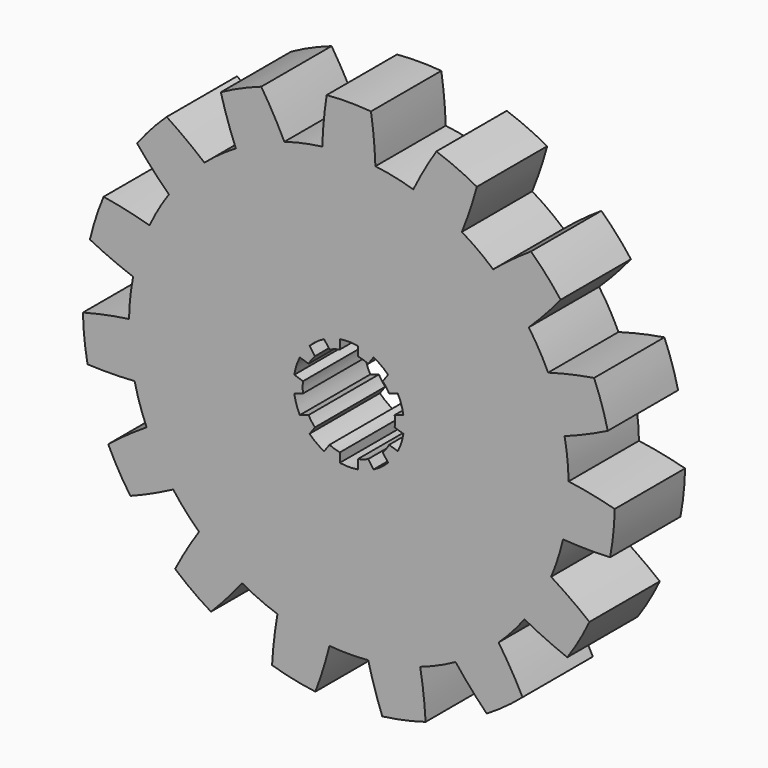
from build123d import *

# Parameters (mm, degrees)
F1_DEPTH = 20
F3_DEPTH = 20


with BuildPart() as f1:
    # F0 (on Front) → F1 (new body)
    with BuildSketch(Plane.XZ):
        with BuildLine():
            ThreePointArc((48.729363, -11.200408), (49.681325, -5.636126), (50, 0))
            ThreePointArc((50, 0), (49.998301, 0.412138), (49.993206, 0.824248))
            ThreePointArc((49.993206, 0.824248), (49.726095, 5.226423), (49.072105, 9.587936))
            ThreePointArc((49.072105, 9.587936), (47.552826, 15.45085), (45.335814, 21.087057))
            ThreePointArc((45.335814, 21.087057), (43.30127, 25), (40.929834, 28.718438))
            ThreePointArc((40.929834, 28.718438), (37.157241, 33.45653), (32.839448, 37.703722))
            ThreePointArc((32.839448, 37.703722), (29.389263, 40.45085), (25.710422, 42.883262))
            ThreePointArc((25.710422, 42.883262), (20.336832, 45.677273), (14.664844, 47.801071))
            ThreePointArc((14.664844, 47.801071), (10.395585, 48.90738), (6.045446, 49.63318))
            ThreePointArc((6.045446, 49.63318), (0, 50), (-6.045446, 49.63318))
            ThreePointArc((-6.045446, 49.63318), (-10.395585, 48.90738), (-14.664844, 47.801071))
            ThreePointArc((-14.664844, 47.801071), (-20.336832, 45.677273), (-25.710422, 42.883262))
            ThreePointArc((-25.710422, 42.883262), (-29.389263, 40.45085), (-32.839448, 37.703722))
            ThreePointArc((-32.839448, 37.703722), (-37.157241, 33.45653), (-40.929834, 28.718438))
            ThreePointArc((-40.929834, 28.718438), (-43.30127, 25), (-45.335814, 21.087057))
            ThreePointArc((-45.335814, 21.087057), (-47.552826, 15.45085), (-49.072105, 9.587936))
            ThreePointArc((-49.072105, 9.587936), (-49.726095, 5.226423), (-49.993206, 0.824248))
            ThreePointArc((-49.993206, 0.824248), (-49.726095, -5.226423), (-48.729363, -11.200408))
            ThreePointArc((-48.729363, -11.200408), (-47.552826, -15.45085), (-46.006318, -19.581081))
            ThreePointArc((-46.006318, -19.581081), (-43.30127, -25), (-39.960872, -30.0521))
            ThreePointArc((-39.960872, -30.0521), (-37.157241, -33.45653), (-34.06452, -36.600663))
            ThreePointArc((-34.06452, -36.600663), (-29.389263, -40.45085), (-24.282783, -43.70751))
            ThreePointArc((-24.282783, -43.70751), (-20.336832, -45.677273), (-16.232657, -47.291657))
            ThreePointArc((-16.232657, -47.291657), (-10.395585, -48.90738), (-4.40598, -49.805495))
            ThreePointArc((-4.40598, -49.805495), (0, -50), (4.40598, -49.805495))
            ThreePointArc((4.40598, -49.805495), (10.395585, -48.90738), (16.232657, -47.291657))
            ThreePointArc((16.232657, -47.291657), (20.336832, -45.677273), (24.282783, -43.70751))
            ThreePointArc((24.282783, -43.70751), (29.389263, -40.45085), (34.06452, -36.600663))
            ThreePointArc((34.06452, -36.600663), (37.157241, -33.45653), (39.960872, -30.0521))
            ThreePointArc((39.960872, -30.0521), (43.30127, -25), (46.006318, -19.581081))
            ThreePointArc((46.006318, -19.581081), (47.552826, -15.45085), (48.729363, -11.200408))
        make_face()
        with BuildLine():
            ThreePointArc((-25.710422, 42.883262), (-20.336832, 45.677273), (-14.664844, 47.801071))
            ThreePointArc((-14.664844, 47.801071), (-17.153833, 52.541957), (-19.920351, 57.126435))
            ThreePointArc((-19.920351, 57.126435), (-24.607567, 55.2695), (-29.123899, 53.028752))
            ThreePointArc((-29.123899, 53.028752), (-27.568128, 47.905214), (-25.710422, 42.883262))
        make_face()
        with BuildLine():
            ThreePointArc((-6.045446, 49.63318), (0, 50), (6.045446, 49.63318))
            ThreePointArc((6.045446, 49.63318), (5.699933, 54.976558), (5.037269, 60.289932))
            ThreePointArc((5.037269, 60.289932), (0, 60.5), (-5.037269, 60.289932))
            ThreePointArc((-5.037269, 60.289932), (-5.699933, 54.976558), (-6.045446, 49.63318))
        make_face()
        with BuildLine():
            ThreePointArc((14.664844, 47.801071), (20.336832, 45.677273), (25.710422, 42.883262))
            ThreePointArc((25.710422, 42.883262), (27.568128, 47.905214), (29.123899, 53.028752))
            ThreePointArc((29.123899, 53.028752), (24.607567, 55.2695), (19.920351, 57.126435))
            ThreePointArc((19.920351, 57.126435), (17.153833, 52.541957), (14.664844, 47.801071))
        make_face()
        with BuildLine():
            ThreePointArc((32.839448, 37.703722), (37.157241, 33.45653), (40.929834, 28.718438))
            ThreePointArc((40.929834, 28.718438), (44.669544, 32.550622), (48.174742, 36.598419))
            ThreePointArc((48.174742, 36.598419), (44.960262, 40.482402), (41.43356, 44.085259))
            ThreePointArc((41.43356, 44.085259), (37.041545, 41.022373), (32.839448, 37.703722))
        make_face()
        with BuildLine():
            ThreePointArc((45.335814, 21.087057), (47.552826, 15.45085), (49.072105, 9.587936))
            ThreePointArc((49.072105, 9.587936), (54.04719, 11.567733), (58.895735, 13.839886))
            ThreePointArc((58.895735, 13.839886), (57.538919, 18.695528), (55.782531, 23.421341))
            ThreePointArc((55.782531, 23.421341), (50.524438, 22.409649), (45.335814, 21.087057))
        make_face()
        with BuildLine():
            ThreePointArc((49.993206, 0.824248), (49.998301, 0.412138), (50, 0))
            ThreePointArc((50, 0), (49.681325, -5.636126), (48.729363, -11.200408))
            ThreePointArc((48.729363, -11.200408), (54.079586, -11.415323), (59.43312, -11.311688))
            ThreePointArc((59.43312, -11.311688), (60.168575, -6.323972), (60.486196, -1.29234))
            ThreePointArc((60.486196, -1.29234), (55.271196, -0.077907), (49.993206, 0.824248))
        make_face()
        with BuildLine():
            ThreePointArc((54.731247, -25.782563), (50.461062, -22.551992), (46.006318, -19.581081))
            ThreePointArc((46.006318, -19.581081), (43.30127, -25), (39.960872, -30.0521))
            ThreePointArc((39.960872, -30.0521), (44.76113, -32.424566), (49.693979, -34.507369))
            ThreePointArc((49.693979, -34.507369), (52.394537, -30.25), (54.731247, -25.782563))
        make_face()
        with BuildLine():
            ThreePointArc((39.512769, -45.814747), (36.925753, -41.126633), (34.06452, -36.600663))
            ThreePointArc((34.06452, -36.600663), (29.389263, -40.45085), (24.282783, -43.70751))
            ThreePointArc((24.282783, -43.70751), (27.703068, -47.827306), (31.362297, -51.736412))
            ThreePointArc((31.362297, -51.736412), (35.561008, -48.945528), (39.512769, -45.814747))
        make_face()
        with BuildLine():
            ThreePointArc((17.462174, -57.925145), (17.005645, -52.590106), (16.232657, -47.291657))
            ThreePointArc((16.232657, -47.291657), (10.395585, -48.90738), (4.40598, -49.805495))
            ThreePointArc((4.40598, -49.805495), (5.854894, -54.960271), (7.607789, -60.01976))
            ThreePointArc((7.607789, -60.01976), (12.578657, -59.17793), (17.462174, -57.925145))
        make_face()
        with BuildLine():
            ThreePointArc((-7.607789, -60.01976), (-5.854894, -54.960271), (-4.40598, -49.805495))
            ThreePointArc((-4.40598, -49.805495), (-10.395585, -48.90738), (-16.232657, -47.291657))
            ThreePointArc((-16.232657, -47.291657), (-17.005645, -52.590106), (-17.462174, -57.925145))
            ThreePointArc((-17.462174, -57.925145), (-12.578657, -59.17793), (-7.607789, -60.01976))
        make_face()
        with BuildLine():
            ThreePointArc((-31.362297, -51.736412), (-27.703068, -47.827306), (-24.282783, -43.70751))
            ThreePointArc((-24.282783, -43.70751), (-29.389263, -40.45085), (-34.06452, -36.600663))
            ThreePointArc((-34.06452, -36.600663), (-36.925753, -41.126633), (-39.512769, -45.814747))
            ThreePointArc((-39.512769, -45.814747), (-35.561008, -48.945528), (-31.362297, -51.736412))
        make_face()
        with BuildLine():
            ThreePointArc((-49.693979, -34.507369), (-44.76113, -32.424566), (-39.960872, -30.0521))
            ThreePointArc((-39.960872, -30.0521), (-43.30127, -25), (-46.006318, -19.581081))
            ThreePointArc((-46.006318, -19.581081), (-50.461062, -22.551992), (-54.731247, -25.782563))
            ThreePointArc((-54.731247, -25.782563), (-52.394537, -30.25), (-49.693979, -34.507369))
        make_face()
        with BuildLine():
            ThreePointArc((-59.43312, -11.311688), (-54.079586, -11.415323), (-48.729363, -11.200408))
            ThreePointArc((-48.729363, -11.200408), (-49.726095, -5.226423), (-49.993206, 0.824248))
            ThreePointArc((-49.993206, 0.824248), (-55.271196, -0.077907), (-60.486196, -1.29234))
            ThreePointArc((-60.486196, -1.29234), (-60.168575, -6.323972), (-59.43312, -11.311688))
        make_face()
        with BuildLine():
            ThreePointArc((-49.072105, 9.587936), (-47.552826, 15.45085), (-45.335814, 21.087057))
            ThreePointArc((-45.335814, 21.087057), (-50.524438, 22.409649), (-55.782531, 23.421341))
            ThreePointArc((-55.782531, 23.421341), (-57.538919, 18.695528), (-58.895735, 13.839886))
            ThreePointArc((-58.895735, 13.839886), (-54.04719, 11.567733), (-49.072105, 9.587936))
        make_face()
        with BuildLine():
            ThreePointArc((-40.929834, 28.718438), (-37.157241, 33.45653), (-32.839448, 37.703722))
            ThreePointArc((-32.839448, 37.703722), (-37.041545, 41.022373), (-41.43356, 44.085259))
            ThreePointArc((-41.43356, 44.085259), (-44.960262, 40.482402), (-48.174742, 36.598419))
            ThreePointArc((-48.174742, 36.598419), (-44.669544, 32.550622), (-40.929834, 28.718438))
        make_face()
    extrude(amount=F1_DEPTH)

    # F2 (on Front) → F3 (cut)
    with BuildSketch(Plane.XZ):
        with BuildLine():
            ThreePointArc((10.427405, -1.232572), (10.481835, -0.617354), (10.5, 0))
            ThreePointArc((10.5, 0), (10.481835, 0.617354), (10.427405, 1.232572))
            ThreePointArc((10.427405, 1.232572), (9.986093, 3.244678), (9.160435, 5.131903))
            ThreePointArc((9.160435, 5.131903), (8.494678, 6.171745), (7.71146, 7.126246))
            ThreePointArc((7.71146, 7.126246), (6.171745, 8.494678), (4.39449, 9.536166))
            ThreePointArc((4.39449, 9.536166), (3.244678, 9.986093), (2.05, 10.297937))
            ThreePointArc((2.05, 10.297937), (0, 10.5), (-2.05, 10.297937))
            ThreePointArc((-2.05, 10.297937), (-3.244678, 9.986093), (-4.39449, 9.536166))
            ThreePointArc((-4.39449, 9.536166), (-6.171745, 8.494678), (-7.71146, 7.126246))
            ThreePointArc((-7.71146, 7.126246), (-8.494678, 6.171745), (-9.160435, 5.131903))
            ThreePointArc((-9.160435, 5.131903), (-9.986093, 3.244678), (-10.427405, 1.232572))
            ThreePointArc((-10.427405, 1.232572), (-10.5, 0), (-10.427405, -1.232572))
            ThreePointArc((-10.427405, -1.232572), (-9.986093, -3.244678), (-9.160435, -5.131903))
            ThreePointArc((-9.160435, -5.131903), (-8.494678, -6.171745), (-7.71146, -7.126246))
            ThreePointArc((-7.71146, -7.126246), (-6.171745, -8.494678), (-4.39449, -9.536166))
            ThreePointArc((-4.39449, -9.536166), (-3.244678, -9.986093), (-2.05, -10.297937))
            ThreePointArc((-2.05, -10.297937), (0, -10.5), (2.05, -10.297937))
            ThreePointArc((2.05, -10.297937), (3.244678, -9.986093), (4.39449, -9.536166))
            ThreePointArc((4.39449, -9.536166), (6.171745, -8.494678), (7.71146, -7.126246))
            ThreePointArc((7.71146, -7.126246), (8.494678, -6.171745), (9.160435, -5.131903))
            ThreePointArc((9.160435, -5.131903), (9.986093, -3.244678), (10.427405, -1.232572))
        make_face()
        with BuildLine():
            ThreePointArc((-7.71146, 7.126246), (-6.171745, 8.494678), (-4.39449, 9.536166))
            Line((-4.39449, 9.536166), (-5.619142, 11.221753))
            ThreePointArc((-5.619142, 11.221753), (-7.376705, 10.153163), (-8.936111, 8.811834))
            Line((-8.936111, 8.811834), (-7.71146, 7.126246))
        make_face()
        with BuildLine():
            ThreePointArc((-10.427405, 1.232572), (-9.986093, 3.244678), (-9.160435, 5.131903))
            Line((-9.160435, 5.131903), (-11.141962, 5.775741))
            ThreePointArc((-11.141962, 5.775741), (-11.935759, 3.878163), (-12.408932, 1.876409))
            Line((-12.408932, 1.876409), (-10.427405, 1.232572))
        make_face()
        with BuildLine():
            ThreePointArc((-2.05, 10.297937), (0, 10.5), (2.05, 10.297937))
            Line((2.05, 10.297937), (2.05, 12.381438))
            ThreePointArc((2.05, 12.381438), (0, 12.55), (-2.05, 12.381438))
            Line((-2.05, 12.381438), (-2.05, 10.297937))
        make_face()
        with BuildLine():
            ThreePointArc((4.39449, 9.536166), (6.171745, 8.494678), (7.71146, 7.126246))
            Line((7.71146, 7.126246), (8.936111, 8.811834))
            ThreePointArc((8.936111, 8.811834), (7.376705, 10.153163), (5.619142, 11.221753))
            Line((5.619142, 11.221753), (4.39449, 9.536166))
        make_face()
        with BuildLine():
            ThreePointArc((9.160435, 5.131903), (9.986093, 3.244678), (10.427405, 1.232572))
            Line((10.427405, 1.232572), (12.408932, 1.876409))
            ThreePointArc((12.408932, 1.876409), (11.935759, 3.878163), (11.141962, 5.775741))
            Line((11.141962, 5.775741), (9.160435, 5.131903))
        make_face()
        with BuildLine():
            Line((12.408932, -1.876409), (10.427405, -1.232572))
            ThreePointArc((10.427405, -1.232572), (9.986093, -3.244678), (9.160435, -5.131903))
            Line((9.160435, -5.131903), (11.141962, -5.775741))
            ThreePointArc((11.141962, -5.775741), (11.935759, -3.878163), (12.408932, -1.876409))
        make_face()
        with BuildLine():
            Line((8.936111, -8.811834), (7.71146, -7.126246))
            ThreePointArc((7.71146, -7.126246), (6.171745, -8.494678), (4.39449, -9.536166))
            Line((4.39449, -9.536166), (5.619142, -11.221753))
            ThreePointArc((5.619142, -11.221753), (7.376705, -10.153163), (8.936111, -8.811834))
        make_face()
        with BuildLine():
            Line((2.05, -12.381438), (2.05, -10.297937))
            ThreePointArc((2.05, -10.297937), (0, -10.5), (-2.05, -10.297937))
            Line((-2.05, -10.297937), (-2.05, -12.381438))
            ThreePointArc((-2.05, -12.381438), (0, -12.55), (2.05, -12.381438))
        make_face()
        with BuildLine():
            Line((-5.619142, -11.221753), (-4.39449, -9.536166))
            ThreePointArc((-4.39449, -9.536166), (-6.171745, -8.494678), (-7.71146, -7.126246))
            Line((-7.71146, -7.126246), (-8.936111, -8.811834))
            ThreePointArc((-8.936111, -8.811834), (-7.376705, -10.153163), (-5.619142, -11.221753))
        make_face()
        with BuildLine():
            Line((-11.141962, -5.775741), (-9.160435, -5.131903))
            ThreePointArc((-9.160435, -5.131903), (-9.986093, -3.244678), (-10.427405, -1.232572))
            Line((-10.427405, -1.232572), (-12.408932, -1.876409))
            ThreePointArc((-12.408932, -1.876409), (-11.935759, -3.878163), (-11.141962, -5.775741))
        make_face()
    extrude(amount=F3_DEPTH, mode=Mode.SUBTRACT)


solid = f1.part
